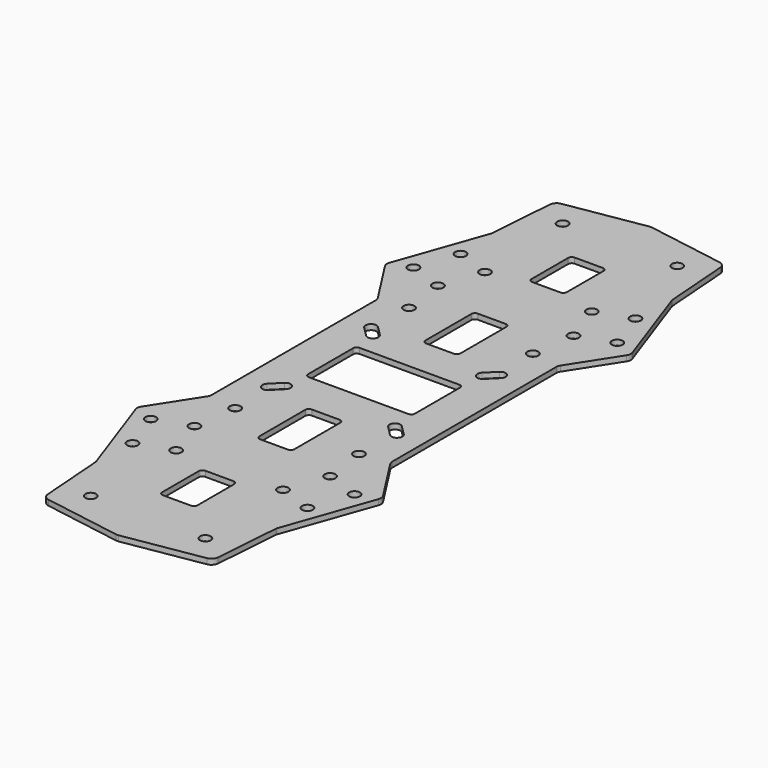
from build123d import *

# Parameters (mm, degrees)
F0_R     = 1.5
F1_DEPTH = 1.5


with BuildPart() as f1:
    # F0 (on Top) → F1 (new body)
    with BuildSketch(Plane.XY):
        with BuildLine():
            ThreePointArc((-25.3176430492, 29.4941114099), (-25.0810531663, 28.9761945322), (-25, 28.4125962273))
            Line((-25, 28.4125962273), (-25, -28.4125962273))
            ThreePointArc((-25, -28.4125962273), (-25.0810531663, -28.9761945322), (-25.3176430492, -29.4941114099))
            Line((-25.3176430492, -29.4941114099), (-33.4704606701, -42.1762721535))
            ThreePointArc((-33.4704606701, -42.1762721535), (-33.774657608, -43.026262721), (-33.6740843865, -43.9234275716))
            Line((-33.6740843865, -43.9234275716), (-25.0442624935, -68.3745896019))
            ThreePointArc((-25.0442624935, -68.3745896019), (-25.0086166049, -68.5018102431), (-24.9900535171, -68.6326197714))
            Line((-24.9900535171, -68.6326197714), (-23.6174713638, -86.9337151489))
            ThreePointArc((-23.6174713638, -86.9337151489), (-23.0992020506, -88.1335952445), (-21.9505091584, -88.7571495439))
            Line((-21.9505091584, -88.7571495439), (-0.3274364143, -92.3456594887))
            ThreePointArc((-0.3274364143, -92.3456594887), (0, -92.3726451972), (0.3274364143, -92.3456594887))
            Line((0.3274364143, -92.3456594887), (21.9505091584, -88.7571495439))
            ThreePointArc((21.9505091584, -88.7571495439), (23.0992020506, -88.1335952445), (23.6174713638, -86.9337151489))
            Line((23.6174713638, -86.9337151489), (24.9900535171, -68.6326197714))
            ThreePointArc((24.9900535171, -68.6326197714), (25.0086166049, -68.5018102431), (25.0442624935, -68.3745896019))
            Line((25.0442624935, -68.3745896019), (33.6740843865, -43.9234275716))
            ThreePointArc((33.6740843865, -43.9234275716), (33.774657608, -43.026262721), (33.4704606701, -42.1762721535))
            Line((33.4704606701, -42.1762721535), (25.3176430492, -29.4941114099))
            ThreePointArc((25.3176430492, -29.4941114099), (25.0810531663, -28.9761945322), (25, -28.4125962273))
            Line((25, -28.4125962273), (25, 28.4125962273))
            ThreePointArc((25, 28.4125962273), (25.0810531663, 28.9761945322), (25.3176430492, 29.4941114099))
            Line((25.3176430492, 29.4941114099), (33.4704606701, 42.1762721535))
            ThreePointArc((33.4704606701, 42.1762721535), (33.774657608, 43.026262721), (33.6740843865, 43.9234275716))
            Line((33.6740843865, 43.9234275716), (25.0442624935, 68.3745896019))
            ThreePointArc((25.0442624935, 68.3745896019), (25.0086166049, 68.5018102431), (24.9900535171, 68.6326197714))
            Line((24.9900535171, 68.6326197714), (23.6174713638, 86.9337151489))
            ThreePointArc((23.6174713638, 86.9337151489), (23.0992020506, 88.1335952445), (21.9505091584, 88.7571495439))
            Line((21.9505091584, 88.7571495439), (0.3274364143, 92.3456594887))
            ThreePointArc((0.3274364143, 92.3456594887), (0, 92.3726451972), (-0.3274364143, 92.3456594887))
            Line((-0.3274364143, 92.3456594887), (-21.9505091584, 88.7571495439))
            ThreePointArc((-21.9505091584, 88.7571495439), (-23.0992020506, 88.1335952445), (-23.6174713638, 86.9337151489))
            Line((-23.6174713638, 86.9337151489), (-24.9900535171, 68.6326197714))
            ThreePointArc((-24.9900535171, 68.6326197714), (-25.0086166049, 68.5018102431), (-25.0442624935, 68.3745896019))
            Line((-25.0442624935, 68.3745896019), (-33.6740843865, 43.9234275716))
            ThreePointArc((-33.6740843865, 43.9234275716), (-33.774657608, 43.026262721), (-33.4704606701, 42.1762721535))
            Line((-33.4704606701, 42.1762721535), (-25.3176430492, 29.4941114099))
        make_face()
        with Locations((-24.2299033358, -56.7940851803)):
            Circle(F0_R, mode=Mode.SUBTRACT)
        with Locations((-15.875, -81.7)):
            Circle(F0_R, mode=Mode.SUBTRACT)
        with Locations((-14.8, -53.465884003)):
            Circle(F0_R, mode=Mode.SUBTRACT)
        with Locations((-28.2237447487, -45.4782011774)):
            Circle(F0_R, mode=Mode.SUBTRACT)
        with Locations((-18.7938414128, -42.15)):
            Circle(F0_R, mode=Mode.SUBTRACT)
        with Locations((-17.15, -30.1)):
            Circle(F0_R, mode=Mode.SUBTRACT)
        with BuildLine():
            Line((-14.1421356237, -16.2634559673), (-16.8291413922, -18.9504617358))
            ThreePointArc((-16.8291413922, -18.9504617358), (-18.9504617358, -18.9504617358), (-18.9504617358, -16.8291413922))
            Line((-18.9504617358, -16.8291413922), (-16.2634559673, -14.1421356237))
            ThreePointArc((-16.2634559673, -14.1421356237), (-14.1421356237, -14.1421356237), (-14.1421356237, -16.2634559673))
        make_face(mode=Mode.SUBTRACT)
        with Locations((15.875, -81.7)):
            Circle(F0_R, mode=Mode.SUBTRACT)
        with BuildLine():
            Line((-3.9, -57), (3.9, -57))
            ThreePointArc((3.9, -57), (4.6071067812, -57.2928932188), (4.9, -58))
            Line((4.9, -58), (4.9, -70.7))
            ThreePointArc((4.9, -70.7), (4.6071067812, -71.4071067812), (3.9, -71.7))
            Line((3.9, -71.7), (-3.9, -71.7))
            ThreePointArc((-3.9, -71.7), (-4.6071067812, -71.4071067812), (-4.9, -70.7))
            Line((-4.9, -70.7), (-4.9, -58))
            ThreePointArc((-4.9, -58), (-4.6071067812, -57.2928932188), (-3.9, -57))
        make_face(mode=Mode.SUBTRACT)
        with Locations((14.8, -53.465884003)):
            Circle(F0_R, mode=Mode.SUBTRACT)
        with Locations((24.2299033358, -56.7940851803)):
            Circle(F0_R, mode=Mode.SUBTRACT)
        with BuildLine():
            ThreePointArc((3.85, -20.2), (4.5571067812, -20.4928932188), (4.85, -21.2))
            Line((4.85, -21.2), (4.85, -37.1))
            ThreePointArc((4.85, -37.1), (4.5571067812, -37.8071067812), (3.85, -38.1))
            Line((3.85, -38.1), (-3.85, -38.1))
            ThreePointArc((-3.85, -38.1), (-4.5571067812, -37.8071067812), (-4.85, -37.1))
            Line((-4.85, -37.1), (-4.85, -21.2))
            ThreePointArc((-4.85, -21.2), (-4.5571067812, -20.4928932188), (-3.85, -20.2))
            Line((-3.85, -20.2), (3.85, -20.2))
        make_face(mode=Mode.SUBTRACT)
        with BuildLine():
            Line((16.2634559673, -14.1421356237), (18.9504617358, -16.8291413922))
            ThreePointArc((18.9504617358, -16.8291413922), (18.9504617358, -18.9504617358), (16.8291413922, -18.9504617358))
            Line((16.8291413922, -18.9504617358), (14.1421356237, -16.2634559673))
            ThreePointArc((14.1421356237, -16.2634559673), (14.1421356237, -14.1421356237), (16.2634559673, -14.1421356237))
        make_face(mode=Mode.SUBTRACT)
        with Locations((18.7938414128, -42.15)):
            Circle(F0_R, mode=Mode.SUBTRACT)
        with Locations((17.15, -30.1)):
            Circle(F0_R, mode=Mode.SUBTRACT)
        with Locations((28.2237447487, -45.4782011774)):
            Circle(F0_R, mode=Mode.SUBTRACT)
        with Locations((-28.2237447487, 45.4782011774)):
            Circle(F0_R, mode=Mode.SUBTRACT)
        with Locations((-17.15, 30.1)):
            Circle(F0_R, mode=Mode.SUBTRACT)
        with Locations((-18.7938414128, 42.15)):
            Circle(F0_R, mode=Mode.SUBTRACT)
        with BuildLine():
            Line((-16.2634559673, 14.1421356237), (-18.9504617358, 16.8291413922))
            ThreePointArc((-18.9504617358, 16.8291413922), (-18.9504617358, 18.9504617358), (-16.8291413922, 18.9504617358))
            Line((-16.8291413922, 18.9504617358), (-14.1421356237, 16.2634559673))
            ThreePointArc((-14.1421356237, 16.2634559673), (-14.1421356237, 14.1421356237), (-16.2634559673, 14.1421356237))
        make_face(mode=Mode.SUBTRACT)
        with Locations((-24.2299033358, 56.7940851803)):
            Circle(F0_R, mode=Mode.SUBTRACT)
        with Locations((-14.8, 53.465884003)):
            Circle(F0_R, mode=Mode.SUBTRACT)
        with Locations((-15.875, 81.7)):
            Circle(F0_R, mode=Mode.SUBTRACT)
        with BuildLine():
            ThreePointArc((-14.8, 7.8), (-14.5071067812, 8.5071067812), (-13.8, 8.8))
            Line((-13.8, 8.8), (13.8, 8.8))
            ThreePointArc((13.8, 8.8), (14.5071067812, 8.5071067812), (14.8, 7.8))
            Line((14.8, 7.8), (14.8, -7.8))
            ThreePointArc((14.8, -7.8), (14.5071067812, -8.5071067812), (13.8, -8.8))
            Line((13.8, -8.8), (-13.8, -8.8))
            ThreePointArc((-13.8, -8.8), (-14.5071067812, -8.5071067812), (-14.8, -7.8))
            Line((-14.8, -7.8), (-14.8, 7.8))
        make_face(mode=Mode.SUBTRACT)
        with BuildLine():
            ThreePointArc((16.8291413922, 18.9504617358), (18.9504617358, 18.9504617358), (18.9504617358, 16.8291413922))
            Line((18.9504617358, 16.8291413922), (16.2634559673, 14.1421356237))
            ThreePointArc((16.2634559673, 14.1421356237), (14.1421356237, 14.1421356237), (14.1421356237, 16.2634559673))
            Line((14.1421356237, 16.2634559673), (16.8291413922, 18.9504617358))
        make_face(mode=Mode.SUBTRACT)
        with BuildLine():
            Line((3.85, 19.4), (-3.85, 19.4))
            ThreePointArc((-3.85, 19.4), (-4.5571067812, 19.6928932188), (-4.85, 20.4))
            Line((-4.85, 20.4), (-4.85, 36.3))
            ThreePointArc((-4.85, 36.3), (-4.5571067812, 37.0071067812), (-3.85, 37.3))
            Line((-3.85, 37.3), (3.85, 37.3))
            ThreePointArc((3.85, 37.3), (4.5571067812, 37.0071067812), (4.85, 36.3))
            Line((4.85, 36.3), (4.85, 20.4))
            ThreePointArc((4.85, 20.4), (4.5571067812, 19.6928932188), (3.85, 19.4))
        make_face(mode=Mode.SUBTRACT)
        with Locations((17.15, 30.1)):
            Circle(F0_R, mode=Mode.SUBTRACT)
        with Locations((18.7938414128, 42.15)):
            Circle(F0_R, mode=Mode.SUBTRACT)
        with Locations((28.2237447487, 45.4782011774)):
            Circle(F0_R, mode=Mode.SUBTRACT)
        with BuildLine():
            Line((3.9, 56.2), (-3.9, 56.2))
            ThreePointArc((-3.9, 56.2), (-4.6071067812, 56.4928932188), (-4.9, 57.2))
            Line((-4.9, 57.2), (-4.9, 69.9))
            ThreePointArc((-4.9, 69.9), (-4.6071067812, 70.6071067812), (-3.9, 70.9))
            Line((-3.9, 70.9), (3.9, 70.9))
            ThreePointArc((3.9, 70.9), (4.6071067812, 70.6071067812), (4.9, 69.9))
            Line((4.9, 69.9), (4.9, 57.2))
            ThreePointArc((4.9, 57.2), (4.6071067812, 56.4928932188), (3.9, 56.2))
        make_face(mode=Mode.SUBTRACT)
        with Locations((14.8, 53.465884003)):
            Circle(F0_R, mode=Mode.SUBTRACT)
        with Locations((15.875, 81.7)):
            Circle(F0_R, mode=Mode.SUBTRACT)
        with Locations((24.2299033358, 56.7940851803)):
            Circle(F0_R, mode=Mode.SUBTRACT)
    extrude(amount=F1_DEPTH)


solid = f1.part
